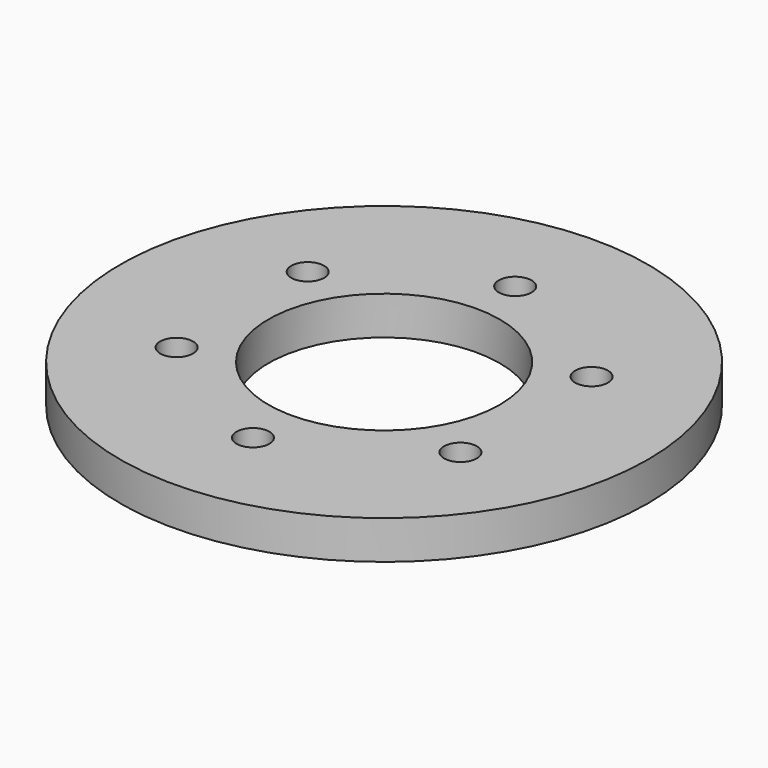
from build123d import *

# Parameters (mm, degrees)
F0_R     = 21.733256
F0_R_2   = 1.35255
F0_R_3   = 9.525
F1_DEPTH = 3.175


with BuildPart() as f1:
    # F0 (on Top) → F1 (new body)
    with BuildSketch(Plane.XY):
        Circle(F0_R)
        with Locations((-11.68593, -6.746875)):
            Circle(F0_R_2, mode=Mode.SUBTRACT)
        with Locations((0, -13.49375)):
            Circle(F0_R_2, mode=Mode.SUBTRACT)
        with Locations((11.68593, -6.746875)):
            Circle(F0_R_2, mode=Mode.SUBTRACT)
        with Locations((-11.68593, 6.746875)):
            Circle(F0_R_2, mode=Mode.SUBTRACT)
        Circle(F0_R_3, mode=Mode.SUBTRACT)
        with Locations((11.68593, 6.746875)):
            Circle(F0_R_2, mode=Mode.SUBTRACT)
        with Locations((0, 13.49375)):
            Circle(F0_R_2, mode=Mode.SUBTRACT)
    extrude(amount=F1_DEPTH)


solid = f1.part
